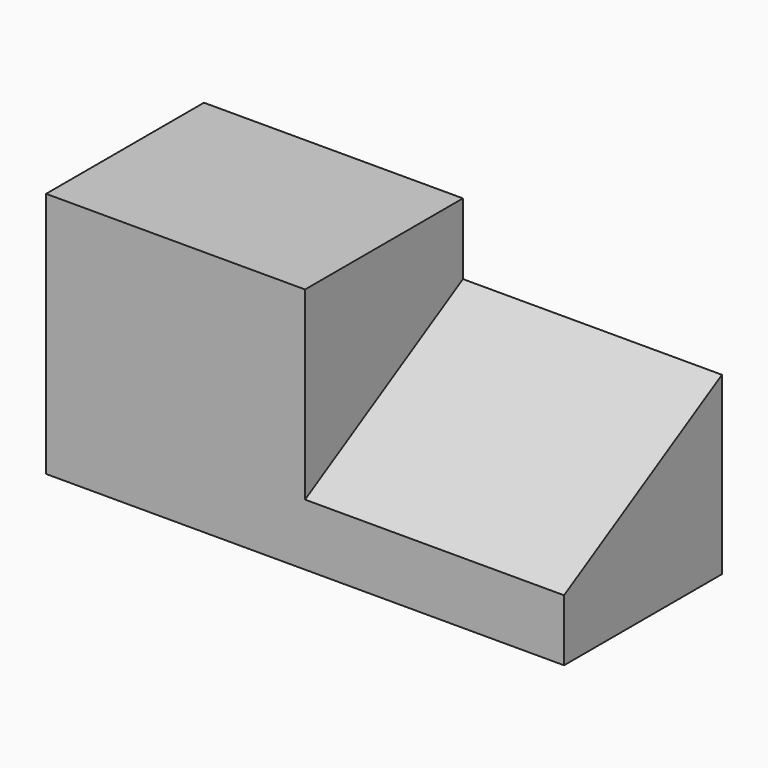
from build123d import *

# Parameters (mm, degrees)
F0_W     = 133.35
F0_H     = 63.5
F1_DEPTH = 50.8
F3_DEPTH = 66.675


with BuildPart() as f1:
    # F0 (on Front) → F1 (new body)
    with BuildSketch(Plane.XZ):
        with Locations((40.997376, 40.828189)):
            Rectangle(F0_W, F0_H)
    extrude(amount=F1_DEPTH)

    # F2 (on face) → F3 (cut)
    with BuildSketch(Plane.YZ.offset(107.672376)):
        Polygon((-50.8, 72.578189), (-50.8, 24.953189), (0, 54.282582), (0, 72.578189), align=None)
    extrude(amount=-F3_DEPTH, mode=Mode.SUBTRACT)


solid = f1.part
